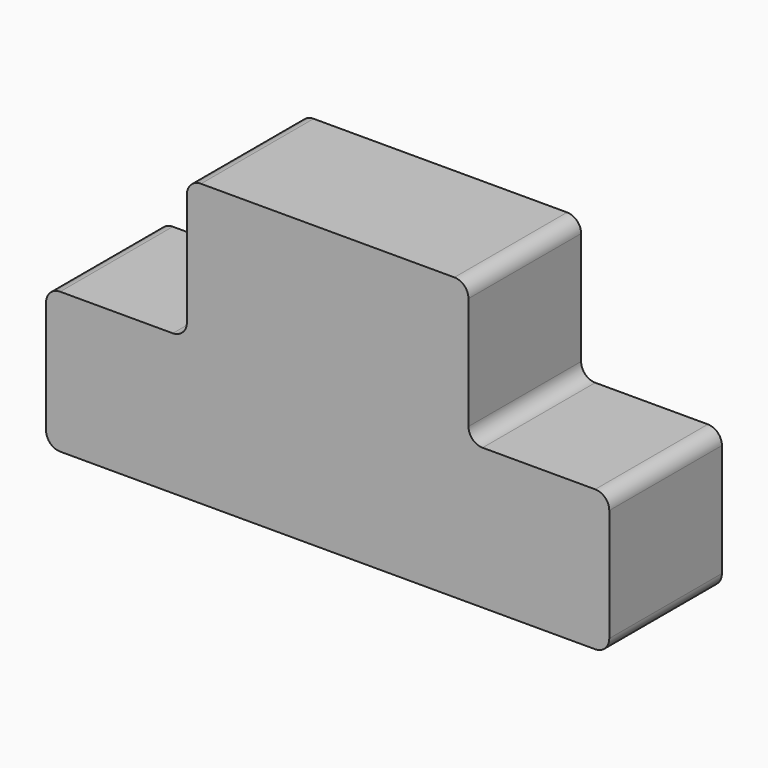
from build123d import *

# Parameters (mm, degrees)
F1_DEPTH = 50


with BuildPart() as f1:
    # F0 (on Front) → F1 (new body)
    with BuildSketch(Plane.XZ):
        with BuildLine():
            Line((-195, 0), (-5, 0))
            ThreePointArc((-5, 0), (-1.464466, 1.464466), (0, 5))
            Line((0, 5), (0, 45))
            ThreePointArc((0, 45), (-1.464466, 48.535534), (-5, 50))
            Line((-5, 50), (-45, 50))
            ThreePointArc((-45, 50), (-48.535534, 51.464466), (-50, 55))
            Line((-50, 55), (-50, 95))
            ThreePointArc((-50, 95), (-51.464466, 98.535534), (-55, 100))
            Line((-55, 100), (-145, 100))
            ThreePointArc((-145, 100), (-148.535534, 98.535534), (-150, 95))
            Line((-150, 95), (-150, 55))
            ThreePointArc((-150, 55), (-151.464466, 51.464466), (-155, 50))
            Line((-155, 50), (-195, 50))
            ThreePointArc((-195, 50), (-198.535534, 48.535534), (-200, 45))
            Line((-200, 45), (-200, 5))
            ThreePointArc((-200, 5), (-198.535534, 1.464466), (-195, 0))
        make_face()
    extrude(amount=F1_DEPTH)


solid = f1.part
